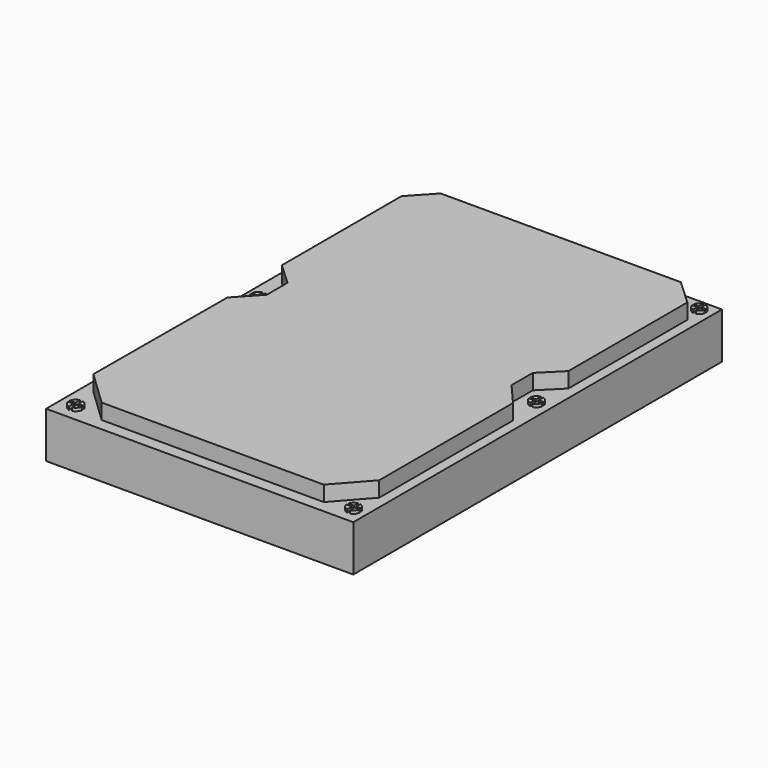
from build123d import *

# Parameters (mm, degrees)
F0_W     = 20
F0_H     = 30
F1_DEPTH = 3
F3_DEPTH = 1
F5_DEPTH = 0.2


with BuildPart() as f1:
    # F0 (on Top) → F1 (new body)
    with BuildSketch(Plane.XY):
        with Locations((10, 28.513513)):
            Rectangle(F0_W, F0_H)
    extrude(amount=F1_DEPTH)

    # F2 (on face) → F3 (join)
    with BuildSketch(Plane.XY.offset(3)):
        Polygon((19.342611, 41.524556), (17.694369, 43.052193), (2.056164, 43.052193), (0.689328, 41.577448), (0.689328, 31.836104), (2.122905, 30.507424), (2.122905, 28.821025), (0.744304, 27.333586), (0.698527, 16.487885), (2.982544, 14.308448), (17.446602, 14.308448), (19.342611, 16.442662), (19.342611, 27.333586), (18.056178, 28.821025), (18.056178, 30.54967), (19.342611, 31.836104), align=None)
    extrude(amount=F3_DEPTH)

    # F4 (on face) → F5 (join)
    with BuildSketch(Plane.XY.offset(3)):
        with BuildLine():
            Line((19.270148, 42.736807), (19.582438, 42.736807))
            ThreePointArc((19.582438, 42.736807), (19.485372, 42.970235), (19.270148, 43.102861))
            Line((19.270148, 43.102861), (19.270148, 42.736807))
        make_face()
        with BuildLine():
            Line((19.107276, 42.736807), (19.107276, 43.109485))
            ThreePointArc((19.107276, 43.109485), (18.870383, 42.982736), (18.762206, 42.736807))
            Line((18.762206, 42.736807), (19.107276, 42.736807))
        make_face()
        with BuildLine():
            Line((0.654074, 42.812039), (0.654074, 43.161998))
            ThreePointArc((0.654074, 43.161998), (0.429915, 43.042523), (0.323149, 42.812039))
            Line((0.323149, 42.812039), (0.654074, 42.812039))
        make_face()
        with BuildLine():
            Line((0.807343, 42.812039), (1.117002, 42.812039))
            ThreePointArc((1.117002, 42.812039), (1.017574, 43.03455), (0.807343, 43.157838))
            Line((0.807343, 43.157838), (0.807343, 42.812039))
        make_face()
        with BuildLine():
            ThreePointArc((0.807343, 42.378449), (1.001335, 42.484646), (1.109067, 42.67779))
            Line((1.109067, 42.67779), (0.807343, 42.67779))
            Line((0.807343, 42.67779), (0.807343, 42.378449))
        make_face()
        with BuildLine():
            ThreePointArc((0.331085, 42.67779), (0.446612, 42.47712), (0.654074, 42.374289))
            Line((0.654074, 42.374289), (0.654074, 42.67779))
            Line((0.654074, 42.67779), (0.331085, 42.67779))
        make_face()
        with BuildLine():
            ThreePointArc((18.766535, 42.634873), (18.882517, 42.411034), (19.107276, 42.296845))
            Line((19.107276, 42.296845), (19.107276, 42.634873))
            Line((19.107276, 42.634873), (18.766535, 42.634873))
        make_face()
        with BuildLine():
            ThreePointArc((19.270148, 42.303468), (19.473758, 42.423052), (19.578109, 42.634873))
            Line((19.578109, 42.634873), (19.270148, 42.634873))
            Line((19.270148, 42.634873), (19.270148, 42.303468))
        make_face()
        with BuildLine():
            Line((0.996978, 29.684267), (1.370052, 29.684267))
            ThreePointArc((1.370052, 29.684267), (1.252467, 29.951603), (0.996978, 30.093093))
            Line((0.996978, 30.093093), (0.996978, 29.684267))
        make_face()
        with BuildLine():
            Line((0.838792, 29.684267), (0.838792, 30.094109))
            ThreePointArc((0.838792, 30.094109), (0.579506, 29.953764), (0.459937, 29.684267))
            Line((0.459937, 29.684267), (0.838792, 29.684267))
        make_face()
        with BuildLine():
            ThreePointArc((0.468405, 29.547278), (0.599281, 29.31341), (0.838792, 29.193174))
            Line((0.838792, 29.193174), (0.838792, 29.547278))
            Line((0.838792, 29.547278), (0.468405, 29.547278))
        make_face()
        with BuildLine():
            ThreePointArc((0.996978, 29.19419), (1.232823, 29.315445), (1.361583, 29.547278))
            Line((1.361583, 29.547278), (0.996978, 29.547278))
            Line((0.996978, 29.547278), (0.996978, 29.19419))
        make_face()
        with BuildLine():
            Line((19.202649, 29.588132), (19.539459, 29.588132))
            ThreePointArc((19.539459, 29.588132), (19.430045, 29.827535), (19.202649, 29.960107))
            Line((19.202649, 29.960107), (19.202649, 29.588132))
        make_face()
        with BuildLine():
            Line((19.050451, 29.588132), (19.050451, 29.966929))
            ThreePointArc((19.050451, 29.966929), (18.79808, 29.84169), (18.67526, 29.588132))
            Line((18.67526, 29.588132), (19.050451, 29.588132))
        make_face()
        with BuildLine():
            ThreePointArc((18.683212, 29.437403), (18.814648, 29.21315), (19.050451, 29.103779))
            Line((19.050451, 29.103779), (19.050451, 29.437403))
            Line((19.050451, 29.437403), (18.683212, 29.437403))
        make_face()
        with BuildLine():
            ThreePointArc((19.202649, 29.1106), (19.414205, 29.226579), (19.531507, 29.437403))
            Line((19.531507, 29.437403), (19.202649, 29.437403))
            Line((19.202649, 29.437403), (19.202649, 29.1106))
        make_face()
        with BuildLine():
            Line((0.994411, 14.655351), (0.994411, 15.033354))
            ThreePointArc((0.994411, 15.033354), (0.747631, 14.904186), (0.622466, 14.655351))
            Line((0.622466, 14.655351), (0.994411, 14.655351))
        make_face()
        with BuildLine():
            Line((1.184542, 14.655351), (1.521054, 14.655351))
            ThreePointArc((1.521054, 14.655351), (1.408339, 14.891019), (1.184542, 15.025773))
            Line((1.184542, 15.025773), (1.184542, 14.655351))
        make_face()
        with BuildLine():
            ThreePointArc((1.184542, 14.14473), (1.408339, 14.279484), (1.521054, 14.515152))
            Line((1.521054, 14.515152), (1.184542, 14.515152))
            Line((1.184542, 14.515152), (1.184542, 14.14473))
        make_face()
        with BuildLine():
            ThreePointArc((0.622466, 14.515152), (0.747631, 14.266317), (0.994411, 14.137149))
            Line((0.994411, 14.137149), (0.994411, 14.515152))
            Line((0.994411, 14.515152), (0.622466, 14.515152))
        make_face()
        with BuildLine():
            Line((19.278564, 14.661851), (19.591466, 14.655351))
            ThreePointArc((19.591466, 14.655351), (19.48198, 14.86364), (19.278564, 14.981936))
            Line((19.278564, 14.981936), (19.278564, 14.661851))
        make_face()
        with BuildLine():
            Line((19.113579, 14.665279), (19.113579, 14.990424))
            ThreePointArc((19.113579, 14.990424), (18.889292, 14.885036), (18.761711, 14.672588))
            Line((18.761711, 14.672588), (19.113579, 14.665279))
        make_face()
        with BuildLine():
            ThreePointArc((18.752394, 14.515152), (18.871129, 14.270688), (19.113579, 14.147892))
            Line((19.113579, 14.147892), (19.113579, 14.515152))
            Line((19.113579, 14.515152), (18.752394, 14.515152))
        make_face()
        with BuildLine():
            ThreePointArc((19.278564, 14.15638), (19.493042, 14.286674), (19.596844, 14.515152))
            Line((19.596844, 14.515152), (19.278564, 14.515152))
            Line((19.278564, 14.515152), (19.278564, 14.15638))
        make_face()
    extrude(amount=F5_DEPTH)


solid = f1.part
